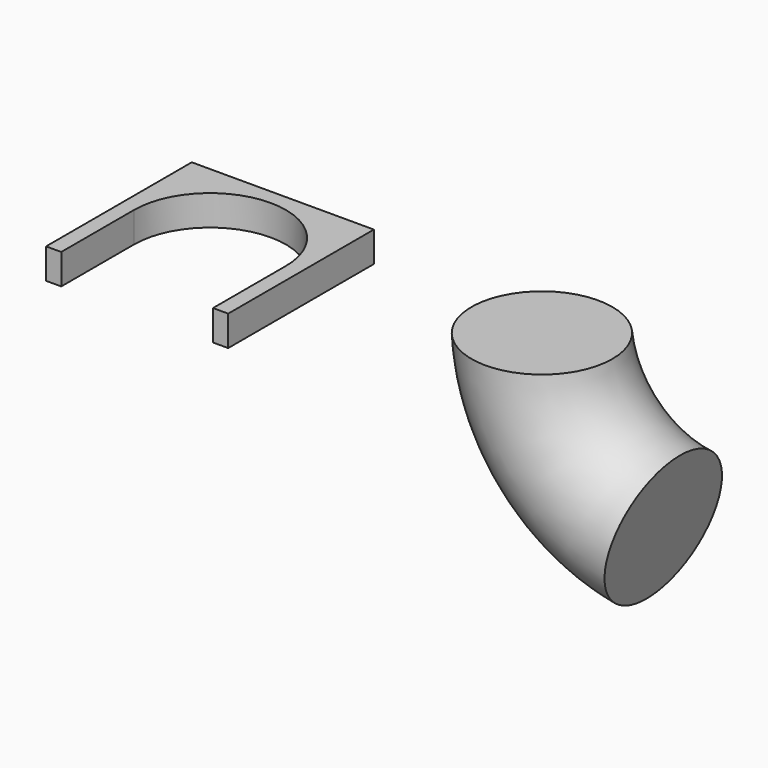
from build123d import *

# Parameters (mm, degrees)
F0_W     = 30
F0_H     = 30
F1_DEPTH = 5
F3_DEPTH = 25
F4_R     = 11.605281


with BuildPart() as f1:
    # F0 (on Top) → F1 (new body)
    with BuildSketch(Plane.XY):
        with Locations((0, 15)):
            Rectangle(F0_W, F0_H)
    extrude(amount=F1_DEPTH)

    # F2 (on face) → F3 (cut)
    with BuildSketch(Plane.XY.offset(5)):
        with BuildLine():
            Line((12.5, 0), (12.5, 15))
            ThreePointArc((12.5, 15), (0, 2.5), (-12.5, 15))
            Line((-12.5, 15), (-12.5, 0))
            Line((-12.5, 0), (12.5, 0))
        make_face()
        with BuildLine():
            ThreePointArc((-12.5, 15), (0, 2.5), (12.5, 15))
            ThreePointArc((12.5, 15), (0, 27.5), (-12.5, 15))
        make_face()
    extrude(amount=-F3_DEPTH, mode=Mode.SUBTRACT)


with BuildPart() as f6:
    # F6: sweep along a path in F5
    with BuildLine(Plane.XZ) as f6_path:
        ThreePointArc((43.873992, 0), (50.119589, -14.28472), (63.857641, -21.655379))
    # F4 (on Top) → F6 (sweep)
    with BuildSketch(Plane.XY):
        with Locations((43.873992, 28.513895)):
            Circle(F4_R)
    sweep(path=f6_path.line)


solid = Compound([f1.part, f6.part])
